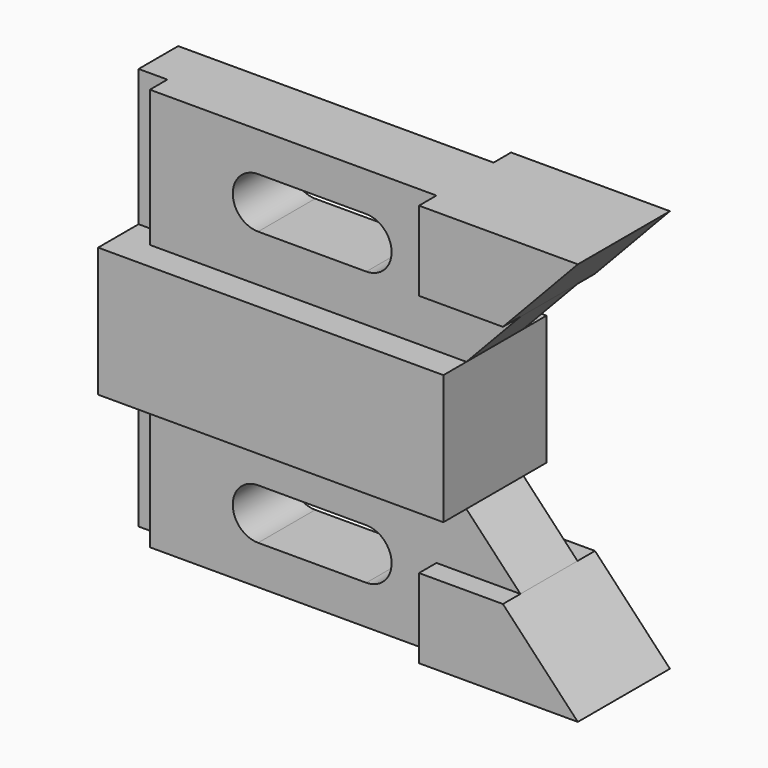
from build123d import *

# Parameters (mm, degrees)
F1_DEPTH      = 5.6
F1_DEPTH_BACK = 5.6
F2_DEPTH      = 3.1
F2_DEPTH_BACK = 3.1
F0_W          = 2.5
F0_H          = 11.875
F3_DEPTH      = 1.2
F3_DEPTH_BACK = 3.1
F4_DEPTH      = 5
F4_DEPTH_BACK = 5


with BuildPart() as f1:
    # F0 (on Front) → F1 (new body, two sides)
    with BuildSketch(Plane.XZ) as f1_sk:
        Polygon((2.5, -11.875), (0, -11.875), (0, -23.125), (2.5, -23.125), (30, -23.125), (30, -11.875), align=None)
    extrude(amount=F1_DEPTH)
    extrude(f1_sk.sketch, amount=-F1_DEPTH_BACK)

    # F0 (on Front) → F2 (join, two sides)
    with BuildSketch(Plane.XZ) as f2_sk:
        Polygon((27.4, 0), (2.5, 0), (2.5, -11.875), (30, -11.875), (34.6922105263, -6.9), (27.4, -6.9), align=None)
        with BuildLine():
            ThreePointArc((9.7, -5.6), (10.3443650814, -4.0443650814), (11.9, -3.4))
            Line((11.9, -3.4), (21.3, -3.4))
            ThreePointArc((21.3, -3.4), (22.8556349186, -4.0443650814), (23.5, -5.6))
            ThreePointArc((23.5, -5.6), (22.8556349186, -7.1556349186), (21.3, -7.8))
            Line((21.3, -7.8), (11.9, -7.8))
            ThreePointArc((11.9, -7.8), (10.3443650814, -7.1556349186), (9.7, -5.6))
        make_face(mode=Mode.SUBTRACT)
        Polygon((30, -23.125), (2.5, -23.125), (2.5, -35), (27.4, -35), (27.4, -28.1), (34.6922105263, -28.1), align=None)
        with BuildLine():
            ThreePointArc((11.9, -31.6), (10.3443650814, -30.9556349186), (9.7, -29.4))
            ThreePointArc((9.7, -29.4), (10.3443650814, -27.8443650814), (11.9, -27.2))
            Line((11.9, -27.2), (21.3, -27.2))
            ThreePointArc((21.3, -27.2), (22.8556349186, -27.8443650814), (23.5, -29.4))
            ThreePointArc((23.5, -29.4), (22.8556349186, -30.9556349186), (21.3, -31.6))
            Line((21.3, -31.6), (11.9, -31.6))
        make_face(mode=Mode.SUBTRACT)
    extrude(amount=F2_DEPTH)
    extrude(f2_sk.sketch, amount=-F2_DEPTH_BACK)

    # F0 (on Front) → F3 (join, two sides)
    with BuildSketch(Plane.XZ) as f3_sk:
        with Locations((1.25, -5.9375)):
            Rectangle(F0_W, F0_H)
        with Locations((1.25, -29.0625)):
            Rectangle(F0_W, F0_H)
    extrude(amount=F3_DEPTH)
    extrude(f3_sk.sketch, amount=-F3_DEPTH_BACK)

    # F0 (on Front) → F4 (join, two sides)
    with BuildSketch(Plane.XZ) as f4_sk:
        Polygon((41.2, 0), (27.4, 0), (27.4, -6.9), (34.6922105263, -6.9), align=None)
        Polygon((41.2, -35), (34.6922105263, -28.1), (27.4, -28.1), (27.4, -35), align=None)
    extrude(amount=F4_DEPTH)
    extrude(f4_sk.sketch, amount=-F4_DEPTH_BACK)


solid = f1.part
